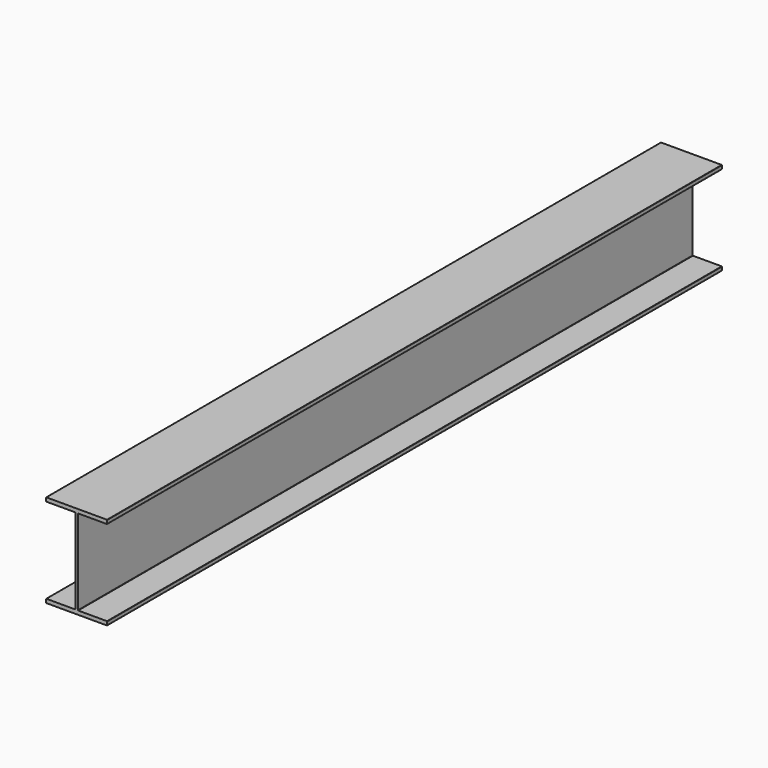
from build123d import *

# Parameters (mm, degrees)
F1_DEPTH = 1676.4


with BuildPart() as f1:
    # F0 (on Front) → F1 (new body)
    with BuildSketch(Plane.XZ):
        with BuildLine():
            ThreePointArc((-66.675, 93.98), (-66.451815, 93.441185), (-65.913, 93.218))
            Line((-65.913, 93.218), (-3.683, 93.218))
            ThreePointArc((-3.683, 93.218), (-3.144185, 92.994815), (-2.921, 92.456))
            Line((-2.921, 92.456), (-2.921, -92.456))
            ThreePointArc((-2.921, -92.456), (-3.144185, -92.994815), (-3.683, -93.218))
            Line((-3.683, -93.218), (-65.913, -93.218))
            ThreePointArc((-65.913, -93.218), (-66.451815, -93.441185), (-66.675, -93.98))
            Line((-66.675, -93.98), (-66.675, -100.838))
            ThreePointArc((-66.675, -100.838), (-66.451815, -101.376815), (-65.913, -101.6))
            Line((-65.913, -101.6), (65.913, -101.6))
            ThreePointArc((65.913, -101.6), (66.451815, -101.376815), (66.675, -100.838))
            Line((66.675, -100.838), (66.675, -93.98))
            ThreePointArc((66.675, -93.98), (66.451815, -93.441185), (65.913, -93.218))
            Line((65.913, -93.218), (3.683, -93.218))
            ThreePointArc((3.683, -93.218), (3.144185, -92.994815), (2.921, -92.456))
            Line((2.921, -92.456), (2.921, 92.456))
            ThreePointArc((2.921, 92.456), (3.144185, 92.994815), (3.683, 93.218))
            Line((3.683, 93.218), (65.913, 93.218))
            ThreePointArc((65.913, 93.218), (66.451815, 93.441185), (66.675, 93.98))
            Line((66.675, 93.98), (66.675, 100.838))
            ThreePointArc((66.675, 100.838), (66.451815, 101.376815), (65.913, 101.6))
            Line((65.913, 101.6), (-65.913, 101.6))
            ThreePointArc((-65.913, 101.6), (-66.451815, 101.376815), (-66.675, 100.838))
            Line((-66.675, 100.838), (-66.675, 93.98))
        make_face()
    extrude(amount=-F1_DEPTH)


solid = f1.part
